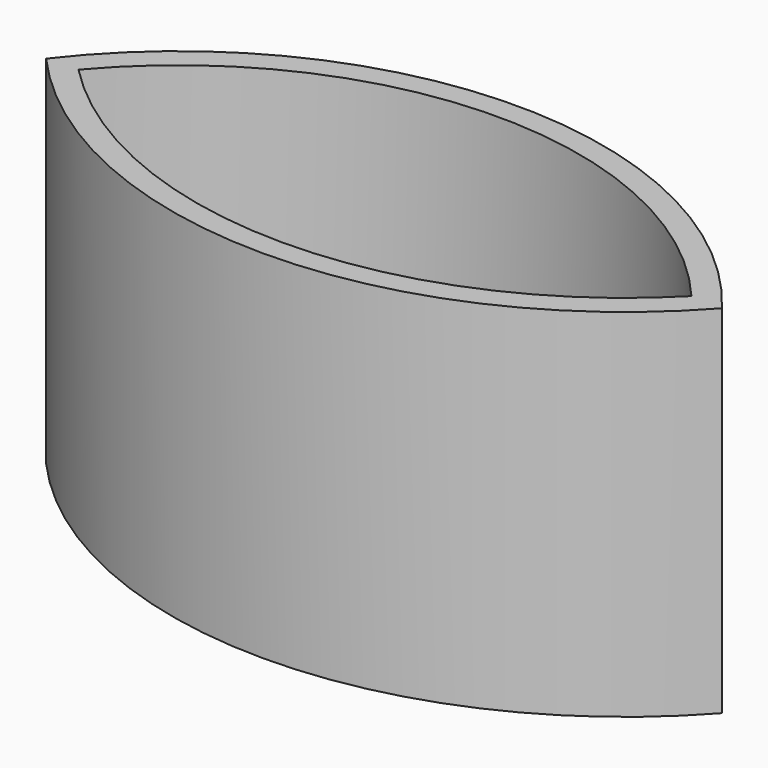
from build123d import *

# Parameters (mm, degrees)
F1_DEPTH = 38.1
F2_T     = -2.54


with BuildPart() as f1:
    # F0 (on Top) → F1 (new body)
    with BuildSketch(Plane.XY):
        with BuildLine():
            ThreePointArc((-42.367201, 0), (-6.248401, -16.178203), (29.870398, 0))
            ThreePointArc((29.870398, 0), (-6.248401, 17.891403), (-42.367201, 0))
        make_face()
    extrude(amount=F1_DEPTH)

    # F2
    f2_openings = [f1.faces().sort_by_distance(p)[0] for p in [
        (-6.248401, 0.736182, 38.1),
    ]]
    offset(amount=F2_T, openings=f2_openings)


solid = f1.part
